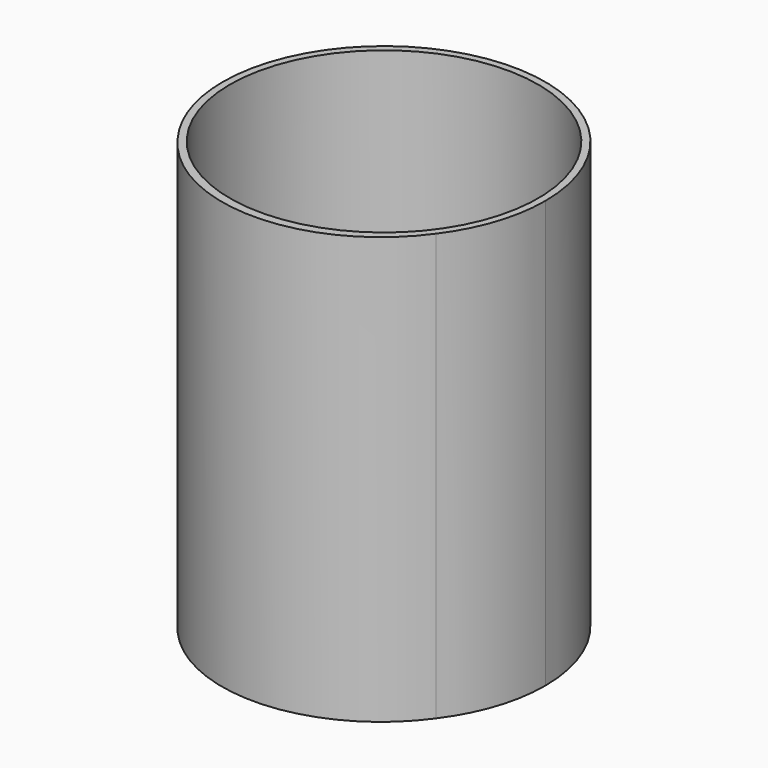
from build123d import *

# Parameters (mm, degrees)
F1_DEPTH = 180
F2_DEPTH = 3


with BuildPart() as f1:
    # F0 (on Top) → F1 (new body)
    with BuildSketch(Plane.XY):
        with BuildLine():
            ThreePointArc((66.99318, -1.704548), (0.852343, 65.28321), (-66.971492, 0))
            ThreePointArc((-66.971492, 0), (-64.038422, -21.381102), (-54.459718, -40.720255))
            ThreePointArc((-54.459718, -40.720255), (0, -68), (54.459718, -40.720255))
            ThreePointArc((54.459718, -40.720255), (63.782897, -22.194259), (66.99318, -1.704548))
        make_face()
        with BuildLine():
            ThreePointArc((65, 0), (0, -65), (-65, 0))
            ThreePointArc((-65, 0), (0, 65), (65, 0))
        make_face(mode=Mode.SUBTRACT)
        with BuildLine():
            ThreePointArc((-54.459718, -40.720255), (-64.038422, -21.381102), (-66.971492, 0))
            Line((-66.971492, 0), (-68, 0))
            ThreePointArc((-68, 0), (-64.526199, -21.456225), (-54.459718, -40.720255))
        make_face()
        with BuildLine():
            Line((-68, 0), (-66.971492, 0))
            ThreePointArc((-66.971492, 0), (0.852343, 65.28321), (66.99318, -1.704548))
            ThreePointArc((66.99318, -1.704548), (63.782897, -22.194259), (54.459718, -40.720255))
            ThreePointArc((54.459718, -40.720255), (64.526199, -21.456225), (68, 0))
            ThreePointArc((68, 0), (0, 68), (-68, 0))
        make_face()
        with BuildLine():
            ThreePointArc((65, 0), (0, 65), (-65, 0))
            ThreePointArc((-65, 0), (0, -65), (65, 0))
        make_face()
        with BuildLine():
            ThreePointArc((54.459718, -40.720255), (0, -68), (-54.459718, -40.720255))
            ThreePointArc((-54.459718, -40.720255), (0, -68.697729), (54.459718, -40.720255))
        make_face()
        with BuildLine():
            ThreePointArc((66.99318, -1.704548), (0.852343, 65.28321), (-66.971492, 0))
            ThreePointArc((-66.971492, 0), (-64.038422, -21.381102), (-54.459718, -40.720255))
            ThreePointArc((-54.459718, -40.720255), (0, -68), (54.459718, -40.720255))
            ThreePointArc((54.459718, -40.720255), (63.782897, -22.194259), (66.99318, -1.704548))
        make_face()
        with BuildLine():
            ThreePointArc((65, 0), (0, -65), (-65, 0))
            ThreePointArc((-65, 0), (0, 65), (65, 0))
        make_face(mode=Mode.SUBTRACT)
    extrude(amount=F1_DEPTH)

    # F0 (on Top) → F2 (join)
    with BuildSketch(Plane.XY):
        with BuildLine():
            ThreePointArc((65, 0), (0, 65), (-65, 0))
            ThreePointArc((-65, 0), (0, -65), (65, 0))
        make_face()
    extrude(amount=F2_DEPTH)


solid = f1.part
